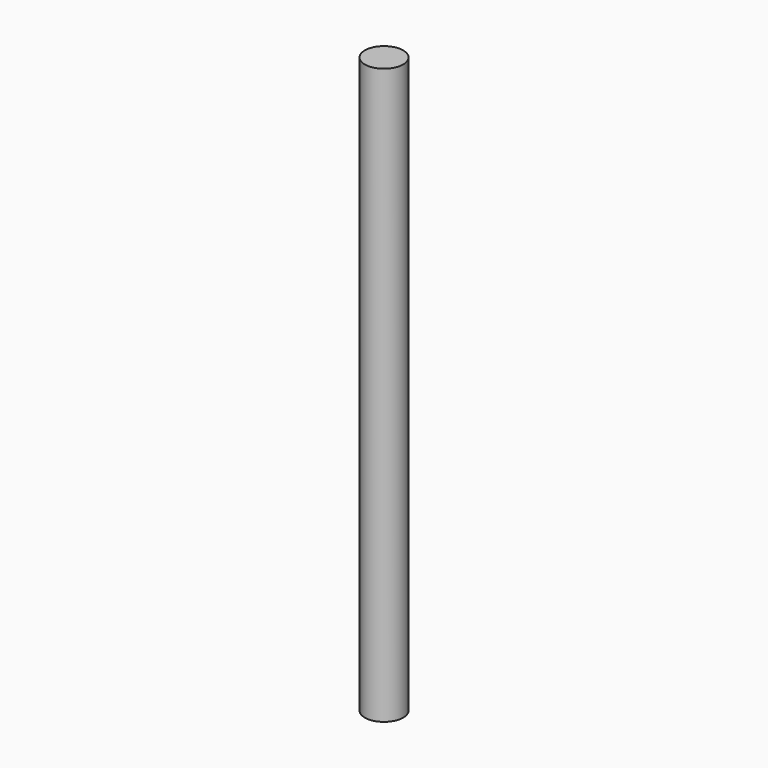
from build123d import *

# Parameters (mm, degrees)
SKETCH_R  = 3
PAD_DEPTH = 90


with BuildPart() as part:
    # Sketch → Pad (new body)
    with BuildSketch(Plane.XY):
        Circle(SKETCH_R)
    extrude(amount=PAD_DEPTH)


solid = part.part
